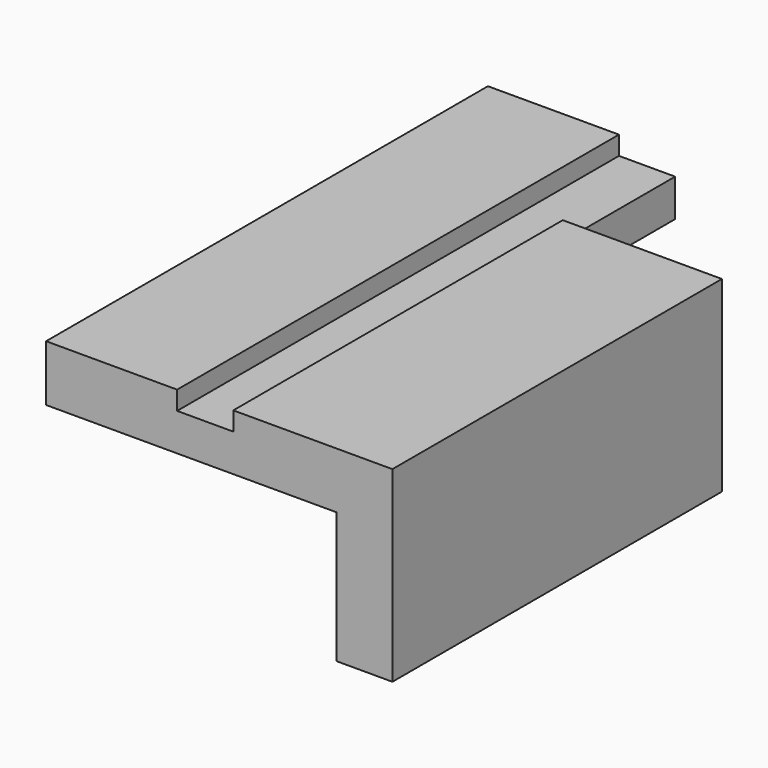
from build123d import *

# Parameters (mm, degrees)
PAD_DEPTH            = 20
SKETCH001_W          = 31
SKETCH001_H          = 14
POCKET_DEPTH         = 37.001
POCKET_DEPTH_BACK    = -22.001
SKETCH002_W          = 6
SKETCH002_H          = 2
POCKET001_DEPTH      = 37.001
POCKET001_DEPTH_BACK = -22.001


with BuildPart() as part:
    # Sketch → Pad (new body)
    with BuildSketch(Plane.XY):
        Polygon((-20, 37), (-20, -22), (17, -22), (17, 22), (0, 22), (0, 37), align=None)
    extrude(amount=-PAD_DEPTH)

    # Sketch001 → Pocket (cut, two sides)
    with BuildSketch(Plane.XZ) as pocket_sk:
        with Locations((-4.5, -13)):
            Rectangle(SKETCH001_W, SKETCH001_H)
    extrude(amount=-POCKET_DEPTH, mode=Mode.SUBTRACT)
    extrude(pocket_sk.sketch, amount=-POCKET_DEPTH_BACK, mode=Mode.SUBTRACT)

    # Sketch002 → Pocket001 (cut, two sides)
    with BuildSketch(Plane.XZ) as pocket001_sk:
        with Locations((-3, -1)):
            Rectangle(SKETCH002_W, SKETCH002_H)
    extrude(amount=-POCKET001_DEPTH, mode=Mode.SUBTRACT)
    extrude(pocket001_sk.sketch, amount=-POCKET001_DEPTH_BACK, mode=Mode.SUBTRACT)


solid = part.part
